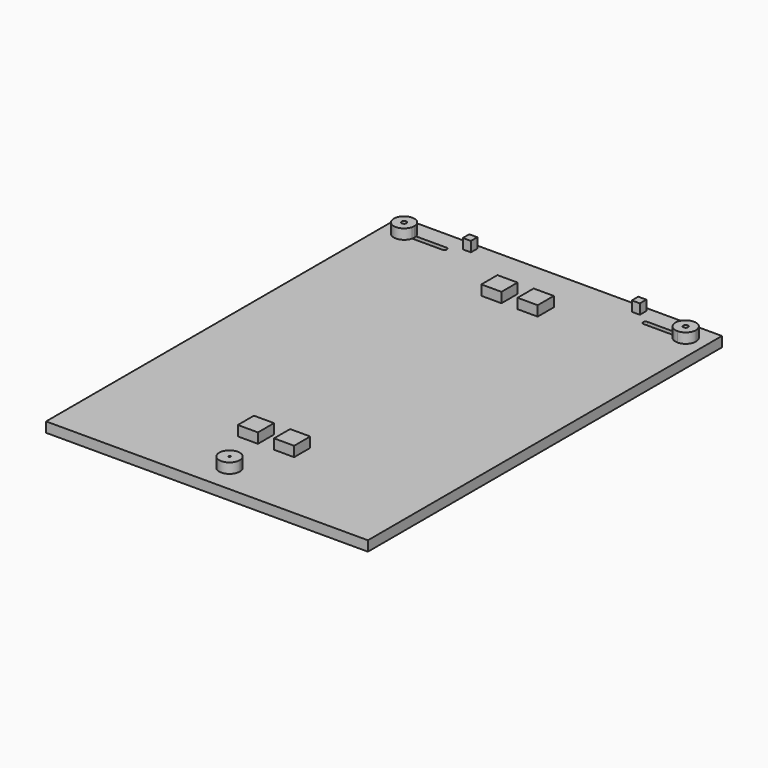
from build123d import *

# Parameters (mm, degrees)
F0_W     = 800
F0_H     = 1100
F1_DEPTH = 25
F3_DEPTH = 25
F4_DEPTH = 25
F2_W     = 50
F2_H     = 50
F2_W_2   = 20
F2_H_2   = 20


with BuildPart() as f1:
    # F0 (on Top) → F1 (new body)
    with BuildSketch(Plane.XY):
        Rectangle(F0_W, F0_H)
    extrude(amount=F1_DEPTH)

    # F2 (on face) → F3 (cut)
    with BuildSketch(Plane.XY.offset(25)):
        with BuildLine():
            Line((-256, 500), (-244, 500))
            ThreePointArc((-244, 500), (-245.7573593129, 504.2426406871), (-250, 506))
            ThreePointArc((-250, 506), (-254.2426406871, 504.2426406871), (-256, 500))
        make_face()
        with BuildLine():
            ThreePointArc((-250, 494), (-245.7573593129, 495.7573593129), (-244, 500))
            Line((-244, 500), (-256, 500))
            ThreePointArc((-256, 500), (-254.2426406871, 495.7573593129), (-250, 494))
        make_face()
        with BuildLine():
            ThreePointArc((-250, 494), (-254.2426406871, 495.7573593129), (-256, 500))
            Line((-256, 500), (-324.5, 500))
            ThreePointArc((-324.5, 500), (-324.6796157187, 496.9787188397), (-325.2159325372, 494))
            Line((-325.2159325372, 494), (-250, 494))
        make_face()
        with BuildLine():
            Line((-324.5, 500), (-256, 500))
            ThreePointArc((-256, 500), (-254.2426406871, 504.2426406871), (-250, 506))
            Line((-250, 506), (-325.2159325372, 506))
            ThreePointArc((-325.2159325372, 506), (-324.6796157187, 503.0212811603), (-324.5, 500))
        make_face()
        with BuildLine():
            ThreePointArc((-350, 494), (-345.7573593129, 495.7573593129), (-344, 500))
            ThreePointArc((-344, 500), (-345.7573593129, 504.2426406871), (-350, 506))
            ThreePointArc((-350, 506), (-356, 500), (-350, 494))
        make_face()
        with BuildLine():
            ThreePointArc((-325.2159325372, 494), (-324.6796157187, 496.9787188397), (-324.5, 500))
            Line((-324.5, 500), (-344, 500))
            ThreePointArc((-344, 500), (-345.7573593129, 495.7573593129), (-350, 494))
            Line((-350, 494), (-325.2159325372, 494))
        make_face()
        with BuildLine():
            Line((-344, 500), (-324.5, 500))
            ThreePointArc((-324.5, 500), (-324.6796157187, 503.0212811603), (-325.2159325372, 506))
            Line((-325.2159325372, 506), (-350, 506))
            ThreePointArc((-350, 506), (-345.7573593129, 504.2426406871), (-344, 500))
        make_face()
        with BuildLine():
            ThreePointArc((250, 506), (254.2426406871, 504.2426406871), (256, 500))
            Line((256, 500), (324.5, 500))
            ThreePointArc((324.5, 500), (324.6796157187, 503.0212811603), (325.2159325372, 506))
            Line((325.2159325372, 506), (250, 506))
        make_face()
        with BuildLine():
            Line((324.5, 500), (256, 500))
            ThreePointArc((256, 500), (254.2426406871, 495.7573593129), (250, 494))
            Line((250, 494), (325.2159325372, 494))
            ThreePointArc((325.2159325372, 494), (324.6796157187, 496.9787188397), (324.5, 500))
        make_face()
        with BuildLine():
            ThreePointArc((325.2159325372, 506), (324.6796157187, 503.0212811603), (324.5, 500))
            Line((324.5, 500), (344, 500))
            ThreePointArc((344, 500), (345.7573593129, 504.2426406871), (350, 506))
            Line((350, 506), (325.2159325372, 506))
        make_face()
        with BuildLine():
            Line((344, 500), (324.5, 500))
            ThreePointArc((324.5, 500), (324.6796157187, 496.9787188397), (325.2159325372, 494))
            Line((325.2159325372, 494), (350, 494))
            ThreePointArc((350, 494), (345.7573593129, 495.7573593129), (344, 500))
        make_face()
        with BuildLine():
            ThreePointArc((350, 506), (345.7573593129, 504.2426406871), (344, 500))
            Line((344, 500), (350, 500))
            Line((350, 500), (350, 494))
            ThreePointArc((350, 494), (354.2426406871, 495.7573593129), (356, 500))
            ThreePointArc((356, 500), (354.2426406871, 504.2426406871), (350, 506))
        make_face()
        with BuildLine():
            Line((350, 500), (344, 500))
            ThreePointArc((344, 500), (345.7573593129, 495.7573593129), (350, 494))
            Line((350, 494), (350, 500))
        make_face()
        with BuildLine():
            ThreePointArc((250, 506), (245.7573593129, 504.2426406871), (244, 500))
            Line((244, 500), (256, 500))
            ThreePointArc((256, 500), (254.2426406871, 504.2426406871), (250, 506))
        make_face()
        with BuildLine():
            Line((256, 500), (244, 500))
            ThreePointArc((244, 500), (245.7573593129, 495.7573593129), (250, 494))
            ThreePointArc((250, 494), (254.2426406871, 495.7573593129), (256, 500))
        make_face()
    extrude(amount=-F3_DEPTH, mode=Mode.SUBTRACT)


with BuildPart() as f4:
    # F2 (on face) → F4 (new body)
    with BuildSketch(Plane.XY.offset(25)):
        with BuildLine():
            ThreePointArc((25.5, -480), (18.0312229203, -461.9687770797), (0, -454.5))
            ThreePointArc((0, -454.5), (-18.0312229203, -498.0312229203), (25.5, -480))
        make_face()
        with BuildLine():
            ThreePointArc((2.5074724197, -480), (-1.7730507516, -481.7730507516), (0, -477.4925275803))
            ThreePointArc((0, -477.4925275803), (1.7730507516, -478.2269492484), (2.5074724197, -480))
        make_face(mode=Mode.SUBTRACT)
    extrude(amount=F4_DEPTH)


with BuildPart() as f4b:
    # F2 (on face) → F4, piece 2 (new body)
    with BuildSketch(Plane.XY.offset(25)):
        with Locations((45, -341.7074251175)):
            Rectangle(F2_W, F2_H)
    extrude(amount=F4_DEPTH)


with BuildPart() as f4c:
    # F2 (on face) → F4, piece 3 (new body)
    with BuildSketch(Plane.XY.offset(25)):
        with Locations((-45, -341.7074251175)):
            Rectangle(F2_W, F2_H)
    extrude(amount=F4_DEPTH)


with BuildPart() as f4d:
    # F2 (on face) → F4, piece 4 (new body)
    with BuildSketch(Plane.XY.offset(25)):
        with Locations((-45, 415)):
            Rectangle(F2_W, F2_H)
    extrude(amount=F4_DEPTH)


with BuildPart() as f4e:
    # F2 (on face) → F4, piece 5 (new body)
    with BuildSketch(Plane.XY.offset(25)):
        with Locations((45, 415)):
            Rectangle(F2_W, F2_H)
    extrude(amount=F4_DEPTH)


with BuildPart() as f4f:
    # F2 (on face) → F4, piece 6 (new body)
    with BuildSketch(Plane.XY.offset(25)):
        with Locations((210, 530)):
            Rectangle(F2_W_2, F2_H_2)
    extrude(amount=F4_DEPTH)


with BuildPart() as f4g:
    # F2 (on face) → F4, piece 7 (new body)
    with BuildSketch(Plane.XY.offset(25)):
        with Locations((-210, 530)):
            Rectangle(F2_W_2, F2_H_2)
    extrude(amount=F4_DEPTH)


with BuildPart() as f4h:
    # F2 (on face) → F4, piece 8 (new body)
    with BuildSketch(Plane.XY.offset(25)):
        with BuildLine():
            Line((-350, 506), (-325.2159325372, 506))
            ThreePointArc((-325.2159325372, 506), (-375.5, 500), (-325.2159325372, 494))
            Line((-325.2159325372, 494), (-350, 494))
            ThreePointArc((-350, 494), (-356, 500), (-350, 506))
        make_face()
        with BuildLine():
            Line((-344, 500), (-324.5, 500))
            ThreePointArc((-324.5, 500), (-324.6796157187, 503.0212811603), (-325.2159325372, 506))
            Line((-325.2159325372, 506), (-350, 506))
            ThreePointArc((-350, 506), (-345.7573593129, 504.2426406871), (-344, 500))
        make_face()
        with BuildLine():
            ThreePointArc((-325.2159325372, 494), (-324.6796157187, 496.9787188397), (-324.5, 500))
            Line((-324.5, 500), (-344, 500))
            ThreePointArc((-344, 500), (-345.7573593129, 495.7573593129), (-350, 494))
            Line((-350, 494), (-325.2159325372, 494))
        make_face()
    extrude(amount=F4_DEPTH)


with BuildPart() as f4i:
    # F2 (on face) → F4, piece 9 (new body)
    with BuildSketch(Plane.XY.offset(25)):
        with BuildLine():
            ThreePointArc((375.5, 500), (353.0212811603, 525.3203842813), (325.2159325372, 506))
            Line((325.2159325372, 506), (350, 506))
            ThreePointArc((350, 506), (354.2426406871, 504.2426406871), (356, 500))
            ThreePointArc((356, 500), (354.2426406871, 495.7573593129), (350, 494))
            Line((350, 494), (350, 474.5))
            ThreePointArc((350, 474.5), (368.0312229203, 481.9687770797), (375.5, 500))
        make_face()
        with BuildLine():
            Line((350, 494), (325.2159325372, 494))
            ThreePointArc((325.2159325372, 494), (334.2321529688, 479.9594161762), (350, 474.5))
            Line((350, 474.5), (350, 494))
        make_face()
        with BuildLine():
            ThreePointArc((325.2159325372, 506), (324.6796157187, 503.0212811603), (324.5, 500))
            Line((324.5, 500), (344, 500))
            ThreePointArc((344, 500), (345.7573593129, 504.2426406871), (350, 506))
            Line((350, 506), (325.2159325372, 506))
        make_face()
        with BuildLine():
            Line((344, 500), (324.5, 500))
            ThreePointArc((324.5, 500), (324.6796157187, 496.9787188397), (325.2159325372, 494))
            Line((325.2159325372, 494), (350, 494))
            ThreePointArc((350, 494), (345.7573593129, 495.7573593129), (344, 500))
        make_face()
    extrude(amount=F4_DEPTH)


solid = Compound([f1.part, f4.part, f4b.part, f4c.part, f4d.part, f4e.part, f4f.part, f4g.part, f4h.part, f4i.part])
